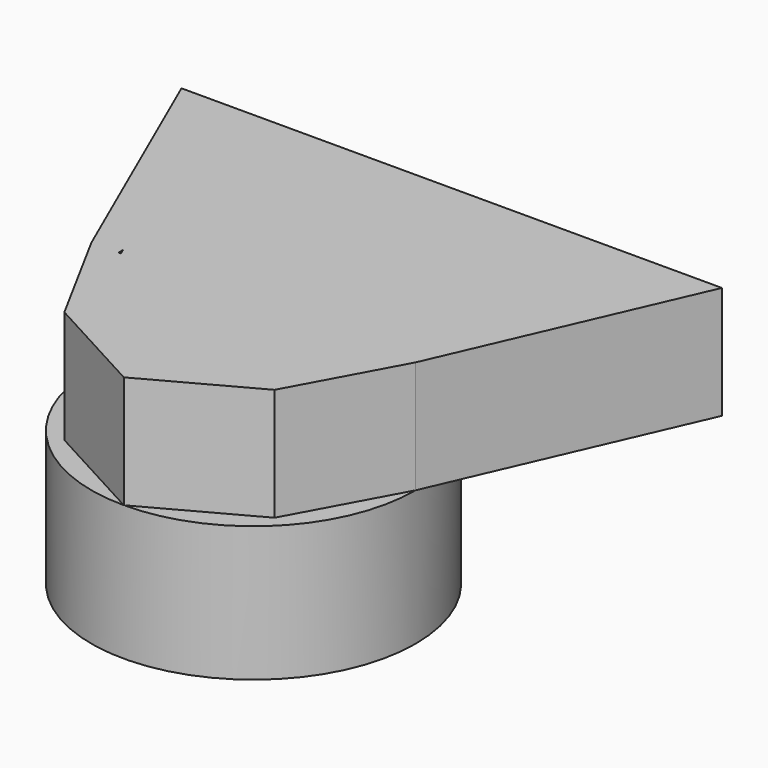
from build123d import *

# Parameters (mm, degrees)
F0_R     = 36
F0_R_2   = 30
F1_DEPTH = 30
F4_DEPTH = 25
F5_DEPTH = 19
F6_DEPTH = 19
F7_DEPTH = 6


with BuildPart() as f1:
    # F0 (on Top) → F1 (new body)
    with BuildSketch(Plane.XY):
        Circle(F0_R)
        Circle(F0_R_2, mode=Mode.SUBTRACT)
    extrude(amount=F1_DEPTH)

    # F3 (on offset) → F4 (join)
    with BuildSketch(Plane.XY.offset(30)):
        with BuildLine():
            Line((0, -36), (0, -30))
            ThreePointArc((0, -30), (-21.213203, -21.213203), (-30, 0))
            ThreePointArc((-30, 0), (-29.994024, 0.598773), (-29.976098, 1.197308))
            Line((-29.976098, 1.197308), (-50.835455, 49))
            Line((-50.835455, 49), (0, 49))
            Line((0, 49), (0, 55))
            Line((0, 55), (-60, 55))
            Line((-60, 55), (-36, 0))
            Line((-36, 0), (-23.334524, -23.334524))
            Line((-23.334524, -23.334524), (0, -36))
        make_face()
        with BuildLine():
            ThreePointArc((30, 0), (21.213203, -21.213203), (0, -30))
            Line((0, -30), (0, -36))
            Line((0, -36), (23.334524, -23.334524))
            Line((23.334524, -23.334524), (36, 0))
            Line((36, 0), (60, 55))
            Line((60, 55), (0, 55))
            Line((0, 55), (0, 49))
            Line((0, 49), (50.835455, 49))
            Line((50.835455, 49), (29.976098, 1.197308))
            ThreePointArc((29.976098, 1.197308), (29.994024, 0.598773), (30, 0))
        make_face()
        with BuildLine():
            ThreePointArc((-29.976098, 1.197308), (-20.785581, 21.632374), (0, 30))
            Line((0, 30), (0, 49))
            Line((0, 49), (-50.835455, 49))
            Line((-50.835455, 49), (-29.976098, 1.197308))
        make_face()
        with BuildLine():
            Line((0, 49), (0, 30))
            ThreePointArc((0, 30), (20.785581, 21.632374), (29.976098, 1.197308))
            Line((29.976098, 1.197308), (50.835455, 49))
            Line((50.835455, 49), (0, 49))
        make_face()
        with BuildLine():
            Line((0, 30), (0, 0))
            Line((0, 0), (0, -30))
            Line((0, -30), (29.453636, 0))
            Line((29.453636, 0), (29.976098, 1.197308))
            ThreePointArc((29.976098, 1.197308), (20.785581, 21.632374), (0, 30))
        make_face()
        with BuildLine():
            Line((0, -30), (0, 0))
            Line((0, 0), (0, 30))
            ThreePointArc((0, 30), (-20.785581, 21.632374), (-29.976098, 1.197308))
            Line((-29.976098, 1.197308), (-29.453636, 0))
            Line((-29.453636, 0), (0, -30))
        make_face()
        with BuildLine():
            ThreePointArc((-30, 0), (-21.213203, -21.213203), (0, -30))
            Line((0, -30), (-29.453636, 0))
            Line((-29.453636, 0), (-30, 0))
        make_face()
        with BuildLine():
            Line((29.453636, 0), (0, -30))
            ThreePointArc((0, -30), (21.213203, -21.213203), (30, 0))
            ThreePointArc((30, 0), (29.994024, 0.598773), (29.976098, 1.197308))
            Line((29.976098, 1.197308), (29.453636, 0))
        make_face()
    extrude(amount=F4_DEPTH)

    # F3 (on offset) → F5 (cut)
    with BuildSketch(Plane.XY.offset(30)):
        with BuildLine():
            ThreePointArc((-30, 0), (-21.213203, -21.213203), (0, -30))
            Line((0, -30), (-29.453636, 0))
            Line((-29.453636, 0), (-30, 0))
        make_face()
        with BuildLine():
            Line((0, -30), (0, 0))
            Line((0, 0), (0, 30))
            ThreePointArc((0, 30), (-20.785581, 21.632374), (-29.976098, 1.197308))
            Line((-29.976098, 1.197308), (-29.453636, 0))
            Line((-29.453636, 0), (0, -30))
        make_face()
        with BuildLine():
            Line((0, 30), (0, 0))
            Line((0, 0), (0, -30))
            Line((0, -30), (29.453636, 0))
            Line((29.453636, 0), (29.976098, 1.197308))
            ThreePointArc((29.976098, 1.197308), (20.785581, 21.632374), (0, 30))
        make_face()
        with BuildLine():
            Line((29.453636, 0), (0, -30))
            ThreePointArc((0, -30), (21.213203, -21.213203), (30, 0))
            ThreePointArc((30, 0), (29.994024, 0.598773), (29.976098, 1.197308))
            Line((29.976098, 1.197308), (29.453636, 0))
        make_face()
    extrude(amount=F5_DEPTH, mode=Mode.SUBTRACT)

    # F3 (on offset) → F6 (cut)
    with BuildSketch(Plane.XY.offset(30)):
        with BuildLine():
            ThreePointArc((-29.976098, 1.197308), (-20.785581, 21.632374), (0, 30))
            Line((0, 30), (0, 49))
            Line((0, 49), (-50.835455, 49))
            Line((-50.835455, 49), (-29.976098, 1.197308))
        make_face()
        with BuildLine():
            Line((0, 49), (0, 30))
            ThreePointArc((0, 30), (20.785581, 21.632374), (29.976098, 1.197308))
            Line((29.976098, 1.197308), (50.835455, 49))
            Line((50.835455, 49), (0, 49))
        make_face()
    extrude(amount=F6_DEPTH, mode=Mode.SUBTRACT)

    # F3 (on offset) → F7 (join)
    with BuildSketch(Plane.XY.offset(30)):
        with BuildLine():
            Line((0, 49), (0, 30))
            ThreePointArc((0, 30), (20.785581, 21.632374), (29.976098, 1.197308))
            Line((29.976098, 1.197308), (50.835455, 49))
            Line((50.835455, 49), (0, 49))
        make_face()
        with BuildLine():
            ThreePointArc((-29.976098, 1.197308), (-20.785581, 21.632374), (0, 30))
            Line((0, 30), (0, 49))
            Line((0, 49), (-50.835455, 49))
            Line((-50.835455, 49), (-29.976098, 1.197308))
        make_face()
    extrude(amount=F7_DEPTH)


solid = f1.part
